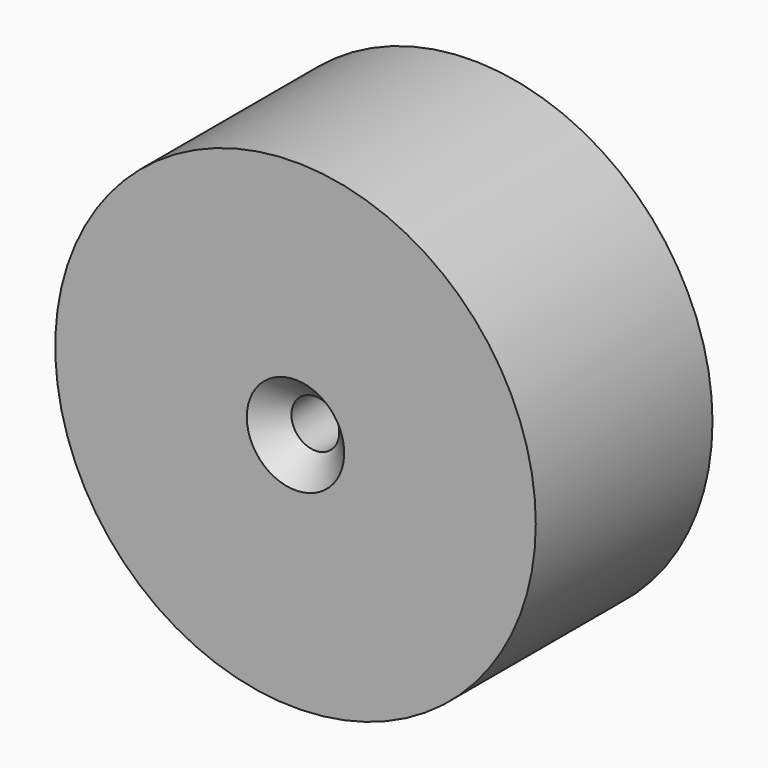
from build123d import *

# Parameters (mm, degrees)
F0_R           = 27.6251503608
F1_DEPTH       = 25.4
F3_D           = 5.5
F3_CSINK_D     = 11.2
F3_CSINK_ANGLE = 90


with BuildPart() as f1:
    # F0 (on Front) → F1 (new body)
    with BuildSketch(Plane.XZ):
        Circle(F0_R)
    extrude(amount=F1_DEPTH)

    # F3 (through all)
    with Locations(Plane.XZ.offset(25.4)):
        with Locations((0, 0)):
            CounterSinkHole(F3_D / 2, F3_CSINK_D / 2, counter_sink_angle=F3_CSINK_ANGLE)


solid = f1.part
